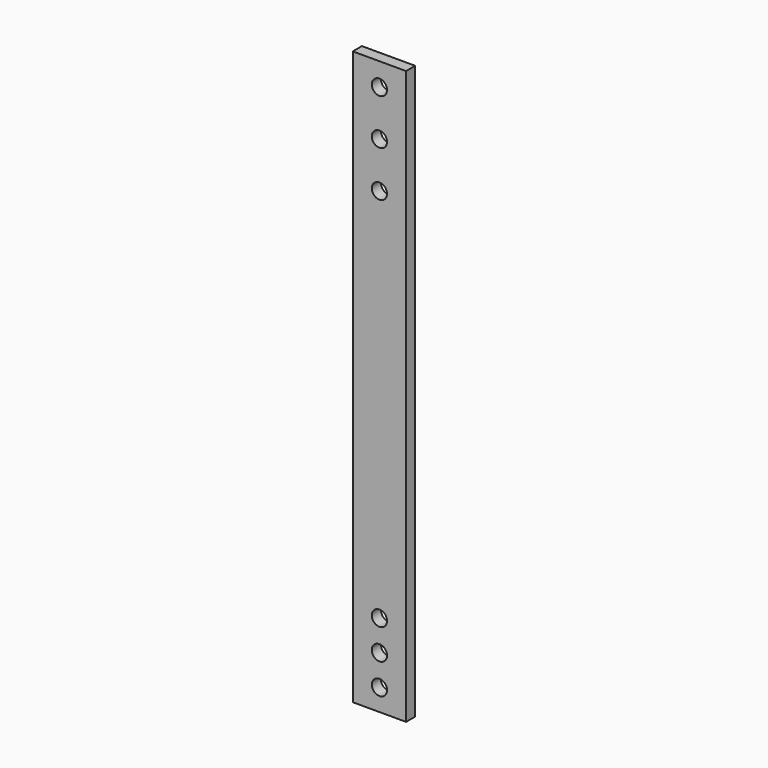
from build123d import *

# Parameters (mm, degrees)
F0_W     = 88.9
F0_H     = 954.864537
F0_R     = 12.7
F1_DEPTH = 19.05


with BuildPart() as f1:
    # F0 (on Front) → F1 (new body)
    with BuildSketch(Plane.XZ):
        with Locations((-1894.832685, -1278.119033)):
            Rectangle(F0_W, F0_H)
        with Locations((-1894.832685, -1719.350435)):
            Circle(F0_R, mode=Mode.SUBTRACT)
        with Locations((-1894.832685, -1668.550435)):
            Circle(F0_R, mode=Mode.SUBTRACT)
        with Locations((-1894.832685, -1617.750435)):
            Circle(F0_R, mode=Mode.SUBTRACT)
        with Locations((-1894.832685, -991.186664)):
            Circle(F0_R, mode=Mode.SUBTRACT)
        with Locations((-1894.832685, -914.986664)):
            Circle(F0_R, mode=Mode.SUBTRACT)
        with Locations((-1894.832685, -838.786664)):
            Circle(F0_R, mode=Mode.SUBTRACT)
    extrude(amount=F1_DEPTH)


solid = f1.part
